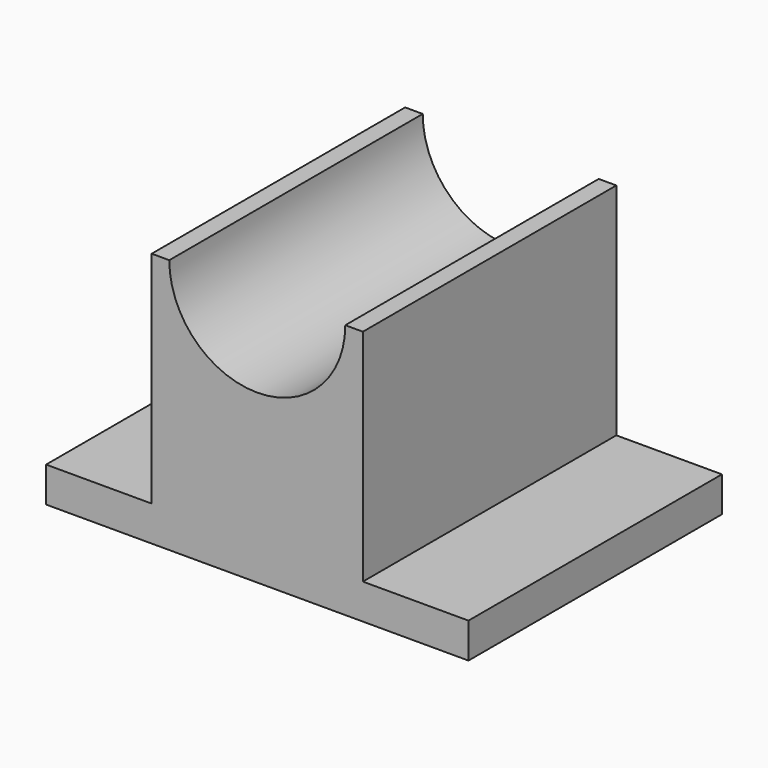
from build123d import *

# Parameters (mm, degrees)
F1_DEPTH = 114.3


with BuildPart() as f1:
    # F0 (on Front) → F1 (new body)
    with BuildSketch(Plane.XZ):
        with BuildLine():
            Line((38.1, -47.471376), (38.1, 31.903624))
            Line((38.1, 31.903624), (31.75, 31.903624))
            ThreePointArc((31.75, 31.903624), (0, 0.153624), (-31.75, 31.903624))
            Line((-31.75, 31.903624), (-38.1, 31.903624))
            Line((-38.1, 31.903624), (-38.1, -47.471376))
            Line((-38.1, -47.471376), (-76.2, -47.471376))
            Line((-76.2, -47.471376), (-76.2, -60.171376))
            Line((-76.2, -60.171376), (76.2, -60.171376))
            Line((76.2, -60.171376), (76.2, -47.471376))
            Line((76.2, -47.471376), (38.1, -47.471376))
        make_face()
    extrude(amount=F1_DEPTH)


solid = f1.part
